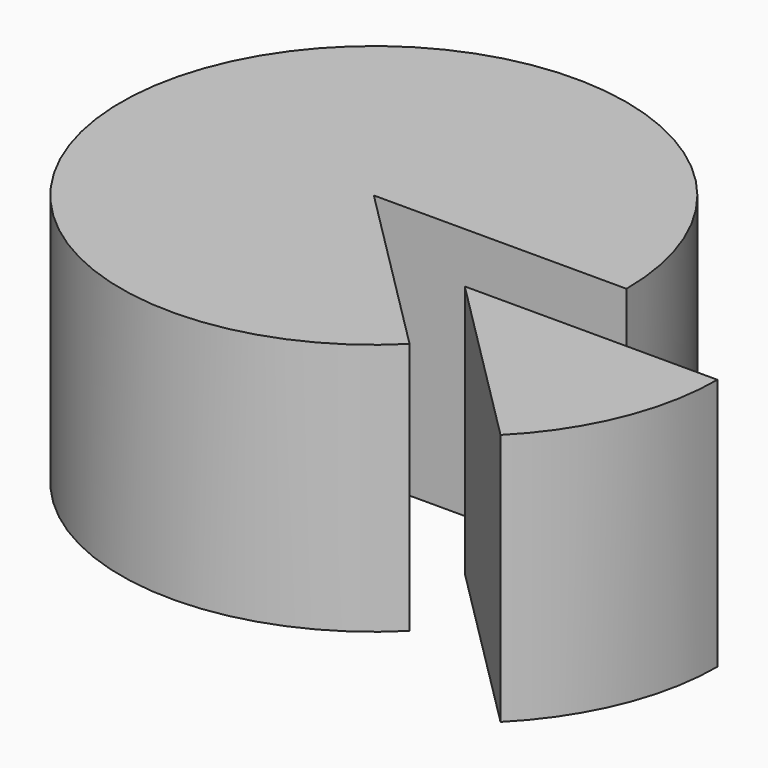
from build123d import *

# Parameters (mm, degrees)
CYLINDER001_W               = 20
CYLINDER001_H               = 20
CYLINDER001_ANGLE           = 45
CYLINDER001_PLACEMENT_ANGLE = 315
CYLINDER_W                  = 20
CYLINDER_H                  = 20
CYLINDER_ANGLE              = 315


with BuildPart() as cylinder001:
    # Cylinder001 → Cylinder001 (revolve)
    with BuildSketch(Plane.XZ):
        with Locations((10, 10)):
            Rectangle(CYLINDER001_W, CYLINDER001_H)
    revolve(axis=Axis((0, 0, 0), (0, 0, 1)), revolution_arc=CYLINDER001_ANGLE)


with BuildPart() as cylinder001_1:
    # Cylinder001 placement: moved
    add(cylinder001.part.moved(Location((12, -6, 0))).rotate(Axis((12, -6, 0), (0, 0, 1)), CYLINDER001_PLACEMENT_ANGLE))


with BuildPart() as obj1:
    # Cylinder → Cylinder (revolve)
    with BuildSketch(Plane.XZ):
        with Locations((10, 10)):
            Rectangle(CYLINDER_W, CYLINDER_H)
    revolve(axis=Axis((0, 0, 0), (0, 0, 1)), revolution_arc=CYLINDER_ANGLE)

    # Fusion: union Cylinder001
    add(cylinder001_1.part)


solid = obj1.part
